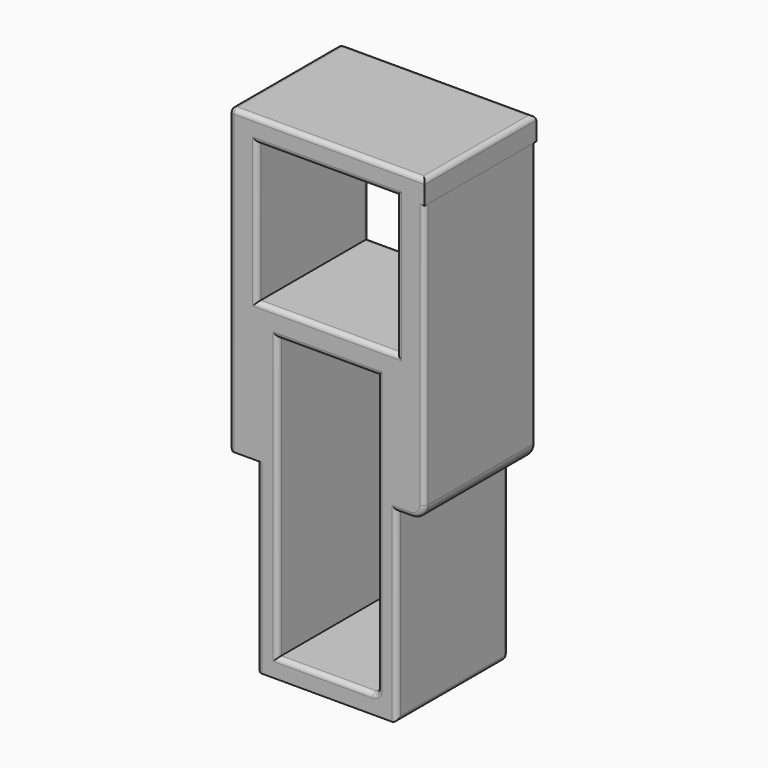
from build123d import *

# Parameters (mm, degrees)
F0_W     = 15
F0_H     = 15
F1_DEPTH = 35
F2_W     = 3
F2_H     = 15
F3_DEPTH = 15
F4_R     = 1.5
F5_W     = 21.0236056261
F5_H     = 15
F6_DEPTH = 2.5
F7_R     = 0.5
F8_W     = 10.7259307988
F8_H     = 30.2171390504
F9_DEPTH = 25
F10_R    = 0.5
F11_R    = 0.5


with BuildPart() as f1:
    # F0 (on Top) → F1 (new body)
    with BuildSketch(Plane.XY):
        with Locations((0.8728443645, -1.2607762389)):
            Rectangle(F0_W, F0_H)
    extrude(amount=F1_DEPTH)

    # F2 (on face) → F3 (join, symmetric)
    with BuildSketch(Plane.XY.offset(35)):
        with Locations((-8.1271556355, -1.2607762389)):
            Rectangle(F2_W, F2_H)
        with Locations((9.8728443645, -1.2607762389)):
            Rectangle(F2_W, F2_H)
    extrude(amount=F3_DEPTH, both=True)

    # F4
    f4_edges = [f1.edges().sort_by_distance(p)[0] for p in [
        (11.372844, -1.260776, 20),
    ]]
    fillet(f4_edges, radius=F4_R)

    # F5 (on face) → F6 (join)
    with BuildSketch(Plane.XY.offset(50)):
        with Locations((0.8846471775, -1.2607762389)):
            Rectangle(F5_W, F5_H)
    extrude(amount=F6_DEPTH)

    # F7
    f7_edges = [f1.edges().sort_by_distance(p)[0] for p in [
        (0.884647, 6.239224, 52.5),
        (-9.627156, -1.260776, 52.5),
        (0.884647, -8.760776, 52.5),
        (11.39645, -1.260776, 52.5),
        (-9.627156, 6.239224, 36.25),
        (-9.627156, -8.760776, 36.25),
        (11.372844, 6.239224, 35.75),
        (0.872844, 6.239224, 35),
        (8.372844, 6.239224, 42.5),
        (0.872844, 6.239224, 50),
        (-6.627156, 6.239224, 42.5),
        (-6.627156, -8.760776, 10),
        (-9.627156, -1.260776, 20),
        (-6.627156, 6.239224, 10),
        (-6.627156, -1.260776, 0),
        (8.372844, 6.239224, 10),
        (0.872844, 6.239224, 0),
        (11.372844, -8.760776, 35.75),
        (8.372844, -8.760776, 10),
        (8.372844, -1.260776, 0),
        (11.372844, -1.260776, 21.5),
    ]]
    fillet(f7_edges, radius=F7_R)

    # F8 (on face) → F9 (cut)
    with BuildSketch(Plane(origin=(0, 6.2392237611, 0), x_dir=(-1, 0, 0), z_dir=(0, 1, 0))):
        with Locations((-0.938487472, 17.1604724601)):
            Rectangle(F8_W, F8_H)
    extrude(amount=-F9_DEPTH, mode=Mode.SUBTRACT)

    # F10
    f10_edges = [f1.edges().sort_by_distance(p)[0] for p in [
        (6.301453, 6.239224, 17.160472),
        (6.301453, -8.760776, 17.160472),
        (0.938487, 6.239224, 2.051903),
        (6.301453, -1.260776, 2.051903),
        (0.938487, -8.760776, 32.269042),
        (-4.424478, -8.760776, 17.160472),
        (0.938487, -8.760776, 2.051903),
        (-6.127156, -8.760776, 10),
        (-6.127156, -1.510776, 0),
        (-4.424478, 6.239224, 17.160472),
        (0.938487, 6.239224, 32.269042),
    ]]
    fillet(f10_edges, radius=F10_R)

    # F11
    f11_edges = [f1.edges().sort_by_distance(p)[0] for p in [
        (0.872844, -8.760776, 50),
        (-6.627156, -8.760776, 42.5),
        (0.872844, -8.760776, 35),
        (8.372844, -8.760776, 42.5),
    ]]
    fillet(f11_edges, radius=F11_R)


solid = f1.part
